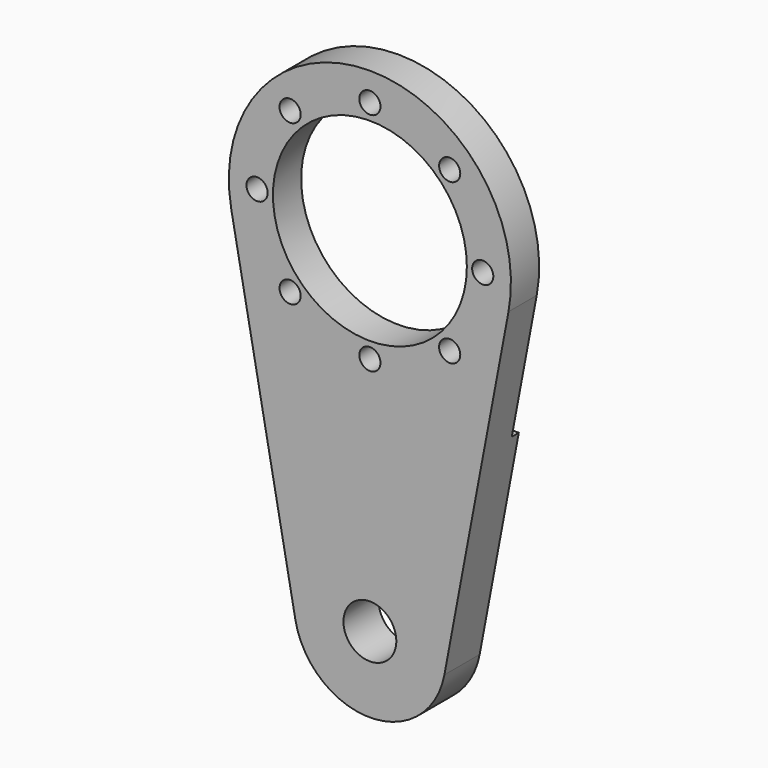
from build123d import *

# Parameters (mm, degrees)
F0_R     = 15
F0_R_2   = 55
F1_DEPTH = 25
F2_R     = 55
F3_DEPTH = 5
F4_R     = 6
F5_DEPTH = 25


with BuildPart() as f1:
    # F0 (on Front) → F1 (new body)
    with BuildSketch(Plane.XZ):
        with BuildLine():
            ThreePointArc((78.619082, -14.8), (0, 80), (-78.619082, -14.8))
            Line((-78.619082, -14.8), (-42.257756, -207.955))
            ThreePointArc((-42.257756, -207.955), (0, -243), (42.257756, -207.955))
            Line((42.257756, -207.955), (78.619082, -14.8))
        make_face()
        with Locations((0, -200)):
            Circle(F0_R, mode=Mode.SUBTRACT)
        Circle(F0_R_2, mode=Mode.SUBTRACT)
        with BuildLine():
            ThreePointArc((78.619082, -14.8), (0, 80), (-78.619082, -14.8))
            Line((-78.619082, -14.8), (-42.257756, -207.955))
            ThreePointArc((-42.257756, -207.955), (0, -243), (42.257756, -207.955))
            Line((42.257756, -207.955), (78.619082, -14.8))
        make_face()
        with Locations((0, -200)):
            Circle(F0_R, mode=Mode.SUBTRACT)
        Circle(F0_R_2, mode=Mode.SUBTRACT)
    extrude(amount=F1_DEPTH)

    # F2 (on face) → F3 (cut)
    with BuildSketch(Plane(origin=(0, 0, 0), x_dir=(-1, 0, 0), z_dir=(0, 1, 0))):
        with BuildLine():
            Line((-78.619082, -14.8), (-64.462722, -90))
            Line((-64.462722, -90), (64.462722, -90))
            Line((64.462722, -90), (78.619082, -14.8))
            ThreePointArc((78.619082, -14.8), (0, 80), (-78.619082, -14.8))
        make_face()
        Circle(F2_R, mode=Mode.SUBTRACT)
    extrude(amount=-F3_DEPTH, mode=Mode.SUBTRACT)

    # F4 (on face) → F5 (cut)
    with BuildSketch(Plane.XZ.offset(25)):
        with Locations((0, 64)):
            Circle(F4_R)
        with Locations((45.254834, 45.254834)):
            Circle(F4_R)
        with Locations((64, 0)):
            Circle(F4_R)
        with Locations((45.254834, -45.254834)):
            Circle(F4_R)
        with Locations((0, -64)):
            Circle(F4_R)
        with Locations((-45.254834, -45.254834)):
            Circle(F4_R)
        with Locations((-64, 0)):
            Circle(F4_R)
        with Locations((-45.254834, 45.254834)):
            Circle(F4_R)
    extrude(amount=-F5_DEPTH, mode=Mode.SUBTRACT)


solid = f1.part
